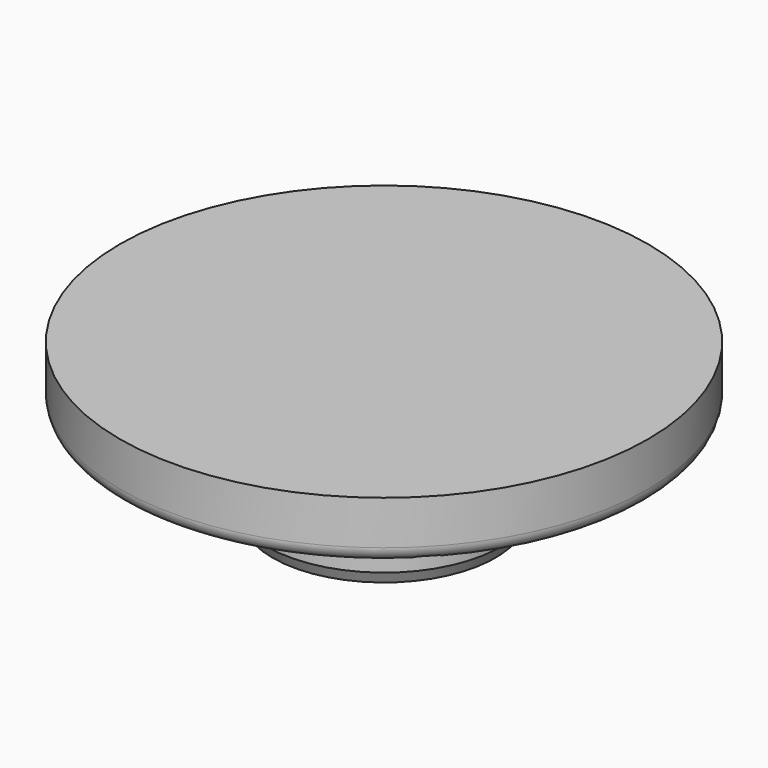
from build123d import *

# Parameters (mm, degrees)
F2_SIZE2 = 0.2
F2_SIZE  = 0.4
F3_R     = 0.5


with BuildPart() as f1:
    # F0 (on Front) → F1 (revolve)
    with BuildSketch(Plane.XZ):
        Polygon((0, -3.25), (0, 2), (-9, 2), (-9, 0), (-5.25, 0), (-5.25, -1), (-4, -1), (-4, -3.25), align=None)
    revolve(axis=Axis((0, 0, -0.625), (0, 0, -1)))

    # F2
    f2_edges = [f1.edges().sort_by_distance(p)[0] for p in [
        (4, 0, -3.25),
    ]]
    chamfer(f2_edges, length=F2_SIZE, length2=F2_SIZE2)

    # F3
    f3_edges = [f1.edges().sort_by_distance(p)[0] for p in [
        (9, 0, 0),
    ]]
    fillet(f3_edges, radius=F3_R)


solid = f1.part
